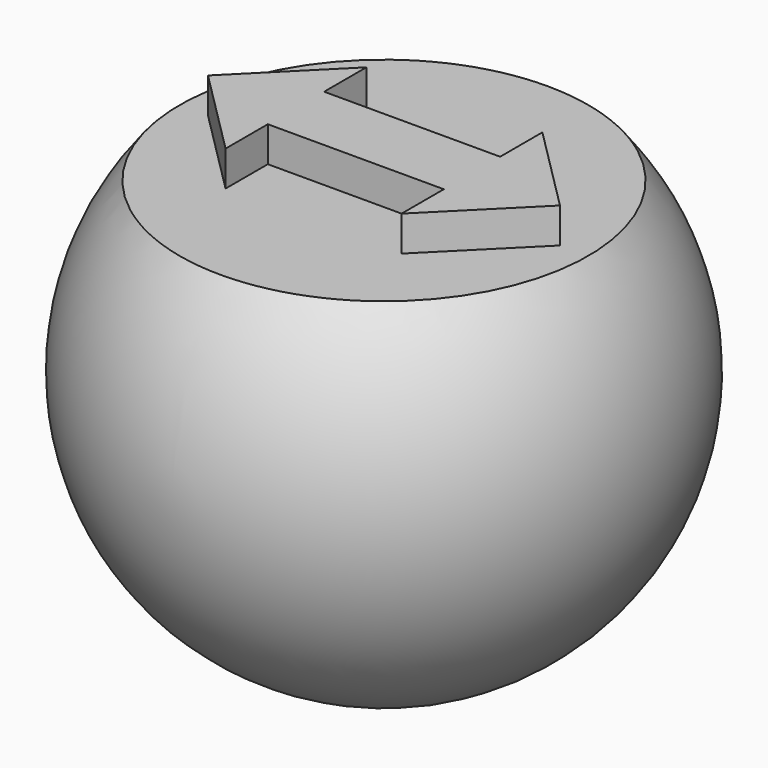
from build123d import *

# Parameters (mm, degrees)
F4_DEPTH  = 30.001
F5_W      = 6
F5_H      = 7
F6_DEPTH  = 13
F7_W      = 50.3954237082
F7_H      = 8.0328645855
F8_DEPTH  = 30.001
F9_W      = 10
F9_H      = 4
F10_DEPTH = 2


with BuildPart() as f1:
    # F0 (on Right) → F1 (revolve)
    with BuildSketch(Plane.YZ):
        with BuildLine():
            Line((-30, 0), (0, 0))
            ThreePointArc((0, 0), (-15, 15), (-30, 0))
        make_face()
    revolve(axis=Axis((0, -15, 0), (0, -1, 0)))

    # F3 (on offset) → F4 (cut, through all)
    with BuildSketch(Plane.XY.offset(15)):
        with BuildLine():
            Line((15, 0), (0, 0))
            Line((0, 0), (-15, 0))
            ThreePointArc((-15, 0), (0, -3), (15, 0))
        make_face()
    extrude(amount=-F4_DEPTH, mode=Mode.SUBTRACT)

    # F5 (on Front) → F6 (cut)
    with BuildSketch(Plane.XZ):
        Rectangle(F5_W, F5_H)
    extrude(amount=F6_DEPTH, mode=Mode.SUBTRACT)

    # F7 (on Front) → F8 (cut, through all)
    with BuildSketch(Plane.XZ):
        with Locations((-1.7276192084, 13.5164322928)):
            Rectangle(F7_W, F7_H)
    extrude(amount=F8_DEPTH, mode=Mode.SUBTRACT)

    # F9 (on face) → F10 (join)
    with BuildSketch(Plane.XY.offset(9.5)):
        with Locations((0, -15)):
            Rectangle(F9_W, F9_H)
        Polygon((-5, -17), (-5, -13), (-5, -10), (-10, -15), (-5, -20), align=None)
        Polygon((5, -10), (5, -13), (5, -17), (5, -20), (10, -15), align=None)
    extrude(amount=F10_DEPTH)


solid = f1.part
